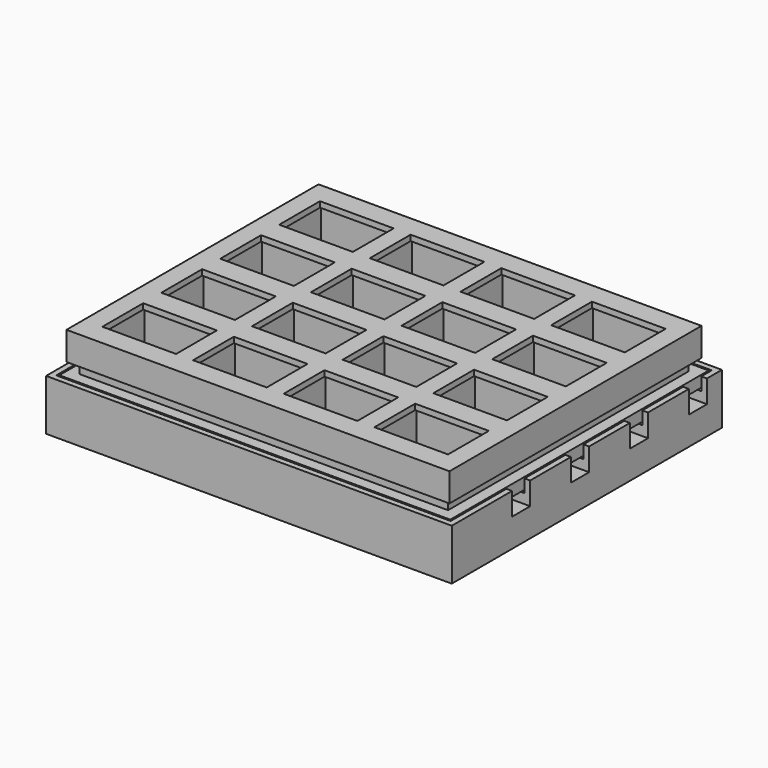
from build123d import *

# Parameters (mm, degrees)
SKETCH_W                = 65
SKETCH_H                = 53
SKETCH_W_2              = 9
SKETCH_H_2              = 6
PAD_DEPTH               = 1
SKETCH001_R             = 1
POCKET_DEPTH            = 1.001
SKETCH002_W             = 65
SKETCH002_H             = 53
SKETCH002_W_2           = 15
SKETCH002_H_2           = 12
PAD001_DEPTH            = 8
SKETCH005_W             = 69
SKETCH005_H             = 57
SKETCH005_W_2           = 65
SKETCH005_H_2           = 53
PAD004_DEPTH            = 2
SKETCH006_W             = 0.8
SKETCH006_H             = 39
POCKET001_DEPTH         = 0.5
SKETCH007_W             = 16
SKETCH007_H             = 0.8
POCKET002_DEPTH         = 0.5
SKETCH003_W             = 67.6
SKETCH003_H             = 55.6
SKETCH003_W_2           = 13
SKETCH003_H_2           = 9
PAD002_DEPTH            = 1
SKETCH004_W             = 67.6
SKETCH004_H             = 55.6
SKETCH004_W_2           = 65.6
SKETCH004_H_2           = 53.6
PAD003_DEPTH            = 5
BODY001_PLACEMENT_ANGLE = 180
SKETCH008_W             = 71.6
SKETCH008_H             = 59.6
SKETCH008_W_2           = 65
SKETCH008_H_2           = 53
PAD005_DEPTH            = 9
SKETCH009_W             = 69.6
SKETCH009_H             = 57.6
POCKET003_DEPTH         = 2.3
SKETCH010_W             = 4
SKETCH010_H             = 6.120376
SKETCH010_H_2           = 8.800861
SKETCH010_H_3           = 6.480469
SKETCH010_W_2           = 4.590287
SKETCH010_H_4           = 4
SKETCH010_W_3           = 6.815865
SKETCH010_W_4           = 8.345955
SKETCH010_W_5           = 7.094059
POCKET004_DEPTH         = 4


with BuildPart() as body:
    # Sketch → Pad (new body)
    with BuildSketch(Plane.XY):
        with Locations((32.5, 26.5)):
            Rectangle(SKETCH_W, SKETCH_H)
        with Locations((8.5, 46)):
            Rectangle(SKETCH_W_2, SKETCH_H_2, mode=Mode.SUBTRACT)
        with Locations((8.5, 33)):
            Rectangle(SKETCH_W_2, SKETCH_H_2, mode=Mode.SUBTRACT)
        with Locations((8.5, 20)):
            Rectangle(SKETCH_W_2, SKETCH_H_2, mode=Mode.SUBTRACT)
        with Locations((8.5, 7)):
            Rectangle(SKETCH_W_2, SKETCH_H_2, mode=Mode.SUBTRACT)
        with Locations((24.5, 46)):
            Rectangle(SKETCH_W_2, SKETCH_H_2, mode=Mode.SUBTRACT)
        with Locations((24.5, 33)):
            Rectangle(SKETCH_W_2, SKETCH_H_2, mode=Mode.SUBTRACT)
        with Locations((24.5, 20)):
            Rectangle(SKETCH_W_2, SKETCH_H_2, mode=Mode.SUBTRACT)
        with Locations((24.5, 7)):
            Rectangle(SKETCH_W_2, SKETCH_H_2, mode=Mode.SUBTRACT)
        with Locations((40.5, 46)):
            Rectangle(SKETCH_W_2, SKETCH_H_2, mode=Mode.SUBTRACT)
        with Locations((40.5, 33)):
            Rectangle(SKETCH_W_2, SKETCH_H_2, mode=Mode.SUBTRACT)
        with Locations((40.5, 20)):
            Rectangle(SKETCH_W_2, SKETCH_H_2, mode=Mode.SUBTRACT)
        with Locations((40.5, 7)):
            Rectangle(SKETCH_W_2, SKETCH_H_2, mode=Mode.SUBTRACT)
        with Locations((56.5, 46)):
            Rectangle(SKETCH_W_2, SKETCH_H_2, mode=Mode.SUBTRACT)
        with Locations((56.5, 33)):
            Rectangle(SKETCH_W_2, SKETCH_H_2, mode=Mode.SUBTRACT)
        with Locations((56.5, 20)):
            Rectangle(SKETCH_W_2, SKETCH_H_2, mode=Mode.SUBTRACT)
        with Locations((56.5, 7)):
            Rectangle(SKETCH_W_2, SKETCH_H_2, mode=Mode.SUBTRACT)
    extrude(amount=PAD_DEPTH)

    # Sketch001 → Pocket (cut, through all)
    with BuildSketch(Plane.XY):
        with Locations((2.3, 41.3)):
            Circle(SKETCH001_R)
        with Locations((2.3, 28.3)):
            Circle(SKETCH001_R)
        with Locations((2.3, 15.3)):
            Circle(SKETCH001_R)
        with Locations((2.3, 2.3)):
            Circle(SKETCH001_R)
        with Locations((18.3, 41.3)):
            Circle(SKETCH001_R)
        with Locations((18.3, 28.3)):
            Circle(SKETCH001_R)
        with Locations((18.3, 15.3)):
            Circle(SKETCH001_R)
        with Locations((18.3, 2.3)):
            Circle(SKETCH001_R)
        with Locations((34.3, 41.3)):
            Circle(SKETCH001_R)
        with Locations((34.3, 28.3)):
            Circle(SKETCH001_R)
        with Locations((34.3, 15.3)):
            Circle(SKETCH001_R)
        with Locations((34.3, 2.3)):
            Circle(SKETCH001_R)
        with Locations((50.3, 41.3)):
            Circle(SKETCH001_R)
        with Locations((50.3, 28.3)):
            Circle(SKETCH001_R)
        with Locations((50.3, 15.3)):
            Circle(SKETCH001_R)
        with Locations((50.3, 2.3)):
            Circle(SKETCH001_R)
        with Locations((14.7, 50.7)):
            Circle(SKETCH001_R)
        with Locations((14.7, 37.7)):
            Circle(SKETCH001_R)
        with Locations((14.7, 24.7)):
            Circle(SKETCH001_R)
        with Locations((14.7, 11.7)):
            Circle(SKETCH001_R)
        with Locations((30.7, 50.7)):
            Circle(SKETCH001_R)
        with Locations((30.7, 37.7)):
            Circle(SKETCH001_R)
        with Locations((30.7, 24.7)):
            Circle(SKETCH001_R)
        with Locations((30.7, 11.7)):
            Circle(SKETCH001_R)
        with Locations((46.7, 50.7)):
            Circle(SKETCH001_R)
        with Locations((46.7, 37.7)):
            Circle(SKETCH001_R)
        with Locations((46.7, 24.7)):
            Circle(SKETCH001_R)
        with Locations((46.7, 11.7)):
            Circle(SKETCH001_R)
        with Locations((62.7, 50.7)):
            Circle(SKETCH001_R)
        with Locations((62.7, 37.7)):
            Circle(SKETCH001_R)
        with Locations((62.7, 24.7)):
            Circle(SKETCH001_R)
        with Locations((62.7, 11.7)):
            Circle(SKETCH001_R)
    extrude(amount=POCKET_DEPTH, mode=Mode.SUBTRACT)

    # Sketch002 → Pad001 (join)
    with BuildSketch(Plane.XY):
        with Locations((32.5, 26.5)):
            Rectangle(SKETCH002_W, SKETCH002_H)
        with Locations((8.5, 46)):
            Rectangle(SKETCH002_W_2, SKETCH002_H_2, mode=Mode.SUBTRACT)
        with Locations((8.5, 33)):
            Rectangle(SKETCH002_W_2, SKETCH002_H_2, mode=Mode.SUBTRACT)
        with Locations((8.5, 20)):
            Rectangle(SKETCH002_W_2, SKETCH002_H_2, mode=Mode.SUBTRACT)
        with Locations((8.5, 7)):
            Rectangle(SKETCH002_W_2, SKETCH002_H_2, mode=Mode.SUBTRACT)
        with Locations((24.5, 46)):
            Rectangle(SKETCH002_W_2, SKETCH002_H_2, mode=Mode.SUBTRACT)
        with Locations((24.5, 33)):
            Rectangle(SKETCH002_W_2, SKETCH002_H_2, mode=Mode.SUBTRACT)
        with Locations((24.5, 20)):
            Rectangle(SKETCH002_W_2, SKETCH002_H_2, mode=Mode.SUBTRACT)
        with Locations((24.5, 7)):
            Rectangle(SKETCH002_W_2, SKETCH002_H_2, mode=Mode.SUBTRACT)
        with Locations((40.5, 20)):
            Rectangle(SKETCH002_W_2, SKETCH002_H_2, mode=Mode.SUBTRACT)
        with Locations((40.5, 7)):
            Rectangle(SKETCH002_W_2, SKETCH002_H_2, mode=Mode.SUBTRACT)
        with Locations((40.5, 46)):
            Rectangle(SKETCH002_W_2, SKETCH002_H_2, mode=Mode.SUBTRACT)
        with Locations((40.5, 33)):
            Rectangle(SKETCH002_W_2, SKETCH002_H_2, mode=Mode.SUBTRACT)
        with Locations((56.5, 46)):
            Rectangle(SKETCH002_W_2, SKETCH002_H_2, mode=Mode.SUBTRACT)
        with Locations((56.5, 33)):
            Rectangle(SKETCH002_W_2, SKETCH002_H_2, mode=Mode.SUBTRACT)
        with Locations((56.5, 20)):
            Rectangle(SKETCH002_W_2, SKETCH002_H_2, mode=Mode.SUBTRACT)
        with Locations((56.5, 7)):
            Rectangle(SKETCH002_W_2, SKETCH002_H_2, mode=Mode.SUBTRACT)
    extrude(amount=PAD001_DEPTH)

    # Sketch005 → Pad004 (join)
    with BuildSketch(Plane.XY):
        with Locations((32.5, 26.5)):
            Rectangle(SKETCH005_W, SKETCH005_H)
        with Locations((32.5, 26.5)):
            Rectangle(SKETCH005_W_2, SKETCH005_H_2, mode=Mode.SUBTRACT)
    extrude(amount=PAD004_DEPTH)

    # Sketch006 → Pocket001 (cut)
    with BuildSketch(Plane.XY):
        with Locations((2.3, 21.8)):
            Rectangle(SKETCH006_W, SKETCH006_H)
        with Locations((18.3, 21.8)):
            Rectangle(SKETCH006_W, SKETCH006_H)
        with Locations((34.3, 21.8)):
            Rectangle(SKETCH006_W, SKETCH006_H)
        with Locations((50.3, 21.8)):
            Rectangle(SKETCH006_W, SKETCH006_H)
    extrude(amount=POCKET001_DEPTH, mode=Mode.SUBTRACT)

    # Sketch007 → Pocket002 (cut)
    with BuildSketch(Plane.XY):
        with Locations((22.7, 50.7)):
            Rectangle(SKETCH007_W, SKETCH007_H)
        with Locations((22.7, 37.7)):
            Rectangle(SKETCH007_W, SKETCH007_H)
        with Locations((22.7, 24.7)):
            Rectangle(SKETCH007_W, SKETCH007_H)
        with Locations((22.7, 11.7)):
            Rectangle(SKETCH007_W, SKETCH007_H)
        with Locations((54.7, 50.7)):
            Rectangle(SKETCH007_W, SKETCH007_H)
        with Locations((54.7, 37.7)):
            Rectangle(SKETCH007_W, SKETCH007_H)
        with Locations((54.7, 24.7)):
            Rectangle(SKETCH007_W, SKETCH007_H)
        with Locations((54.7, 11.7)):
            Rectangle(SKETCH007_W, SKETCH007_H)
    extrude(amount=POCKET002_DEPTH, mode=Mode.SUBTRACT)


with BuildPart() as lid:
    # Sketch003 → Pad002 (new body)
    with BuildSketch(Plane.XY):
        with Locations((32.5, 26.5)):
            Rectangle(SKETCH003_W, SKETCH003_H)
        with Locations((8.5, 46)):
            Rectangle(SKETCH003_W_2, SKETCH003_H_2, mode=Mode.SUBTRACT)
        with Locations((8.5, 33)):
            Rectangle(SKETCH003_W_2, SKETCH003_H_2, mode=Mode.SUBTRACT)
        with Locations((8.5, 20)):
            Rectangle(SKETCH003_W_2, SKETCH003_H_2, mode=Mode.SUBTRACT)
        with Locations((8.5, 7)):
            Rectangle(SKETCH003_W_2, SKETCH003_H_2, mode=Mode.SUBTRACT)
        with Locations((24.5, 46)):
            Rectangle(SKETCH003_W_2, SKETCH003_H_2, mode=Mode.SUBTRACT)
        with Locations((24.5, 33)):
            Rectangle(SKETCH003_W_2, SKETCH003_H_2, mode=Mode.SUBTRACT)
        with Locations((24.5, 20)):
            Rectangle(SKETCH003_W_2, SKETCH003_H_2, mode=Mode.SUBTRACT)
        with Locations((24.5, 7)):
            Rectangle(SKETCH003_W_2, SKETCH003_H_2, mode=Mode.SUBTRACT)
        with Locations((40.5, 46)):
            Rectangle(SKETCH003_W_2, SKETCH003_H_2, mode=Mode.SUBTRACT)
        with Locations((40.5, 33)):
            Rectangle(SKETCH003_W_2, SKETCH003_H_2, mode=Mode.SUBTRACT)
        with Locations((40.5, 20)):
            Rectangle(SKETCH003_W_2, SKETCH003_H_2, mode=Mode.SUBTRACT)
        with Locations((40.5, 7)):
            Rectangle(SKETCH003_W_2, SKETCH003_H_2, mode=Mode.SUBTRACT)
        with Locations((56.5, 46)):
            Rectangle(SKETCH003_W_2, SKETCH003_H_2, mode=Mode.SUBTRACT)
        with Locations((56.5, 33)):
            Rectangle(SKETCH003_W_2, SKETCH003_H_2, mode=Mode.SUBTRACT)
        with Locations((56.5, 20)):
            Rectangle(SKETCH003_W_2, SKETCH003_H_2, mode=Mode.SUBTRACT)
        with Locations((56.5, 7)):
            Rectangle(SKETCH003_W_2, SKETCH003_H_2, mode=Mode.SUBTRACT)
    extrude(amount=PAD002_DEPTH)

    # Sketch004 → Pad003 (join)
    with BuildSketch(Plane.XY):
        with Locations((32.5, 26.5)):
            Rectangle(SKETCH004_W, SKETCH004_H)
        with Locations((32.5, 26.5)):
            Rectangle(SKETCH004_W_2, SKETCH004_H_2, mode=Mode.SUBTRACT)
    extrude(amount=PAD003_DEPTH)


with BuildPart() as lid_1:
    # Body001 placement: moved
    add(lid.part.moved(Location((65, 0, 9))).rotate(Axis((65, 0, 9), (0, 1, 0)), BODY001_PLACEMENT_ANGLE))


with BuildPart() as support:
    # Sketch008 → Pad005 (new body)
    with BuildSketch(Plane.XY):
        with Locations((32.5, 26.5)):
            Rectangle(SKETCH008_W, SKETCH008_H)
        with Locations((32.5, 26.5)):
            Rectangle(SKETCH008_W_2, SKETCH008_H_2, mode=Mode.SUBTRACT)
    extrude(amount=PAD005_DEPTH)

    # Sketch009 (on Face10 of Pad005) → Pocket003 (cut)
    with BuildSketch(Plane.XY.offset(9)):
        with Locations((32.5, 26.5)):
            Rectangle(SKETCH009_W, SKETCH009_H)
    extrude(amount=-POCKET003_DEPTH, mode=Mode.SUBTRACT)

    # Sketch010 (on Face5 of Pocket003) → Pocket004 (cut)
    with BuildSketch(Plane.XY.offset(9)):
        with Locations((2, 55.074108)):
            Rectangle(SKETCH010_W, SKETCH010_H)
        with Locations((18, 54.935013)):
            Rectangle(SKETCH010_W, SKETCH010_H)
        with Locations((34, 55.440656)):
            Rectangle(SKETCH010_W, SKETCH010_H_2)
        with Locations((50, 54.707588)):
            Rectangle(SKETCH010_W, SKETCH010_H_3)
        with Locations((66.644729, 51)):
            Rectangle(SKETCH010_W_2, SKETCH010_H_4)
        with Locations((68.408039, 38)):
            Rectangle(SKETCH010_W_3, SKETCH010_H_4)
        with Locations((68.127536, 25)):
            Rectangle(SKETCH010_W_4, SKETCH010_H_4)
        with Locations((67.62956, 12)):
            Rectangle(SKETCH010_W_5, SKETCH010_H_4)
    extrude(amount=-POCKET004_DEPTH, mode=Mode.SUBTRACT)


with BuildPart() as support_1:
    # Body002 placement: moved
    add(support.part.moved(Location((0, 0, -7))))


solid = Compound([body.part, lid_1.part, support_1.part])
